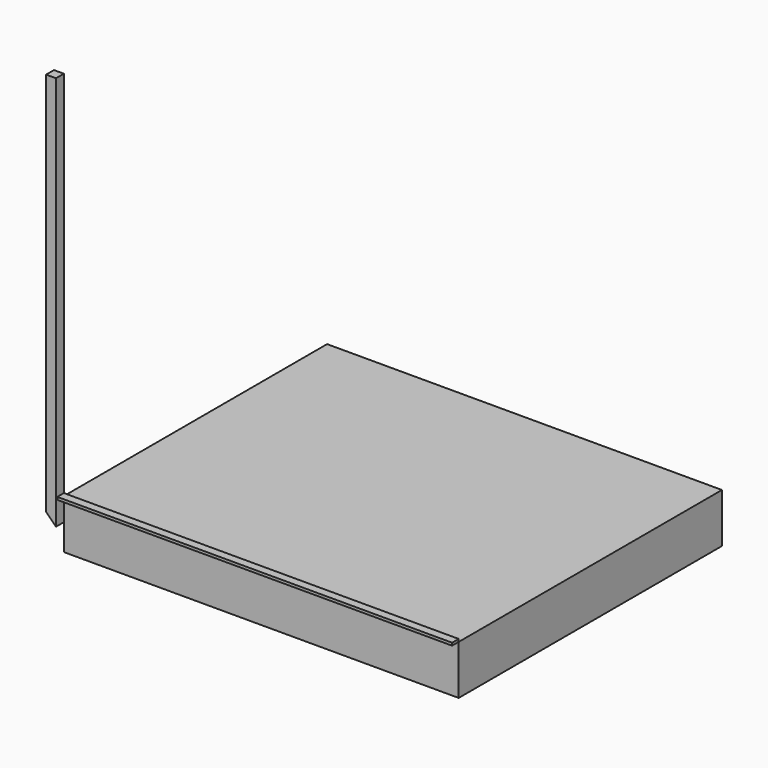
from build123d import *

# Parameters (mm, degrees)
F0_W     = 1200
F0_H     = 150
F1_DEPTH = 1000
F3_W     = 1200
F3_H     = 8
F4_DEPTH = 25
F7_DEPTH = 30


with BuildPart() as f1:
    # F0 (on Front) → F1 (new body)
    with BuildSketch(Plane.XZ):
        with Locations((-565.955239, 77.728495)):
            Rectangle(F0_W, F0_H)
    extrude(amount=F1_DEPTH)



with BuildPart() as f4:
    # F3 (on face) → F4 (new body)
    with BuildSketch(Plane.XZ.offset(1000)):
        with Locations((-565.955239, 156.728495)):
            Rectangle(F3_W, F3_H)
    extrude(amount=F4_DEPTH)


with BuildPart() as f1_1:
    add(f1.part)

    add(f4.part)  # F7 merges F4
    # F6 (on face) → F7 (join)
    with BuildSketch(Plane.XZ.offset(1000)):
        Polygon((-1165.955239, 152.728495), (-1165.955239, 1282.728495), (-1195.955239, 1282.728495), (-1195.955239, 152.728495), (-1195.955239, 112.728495), (-1165.955239, 82.728495), align=None)
    extrude(amount=F7_DEPTH)


solid = f1_1.part
